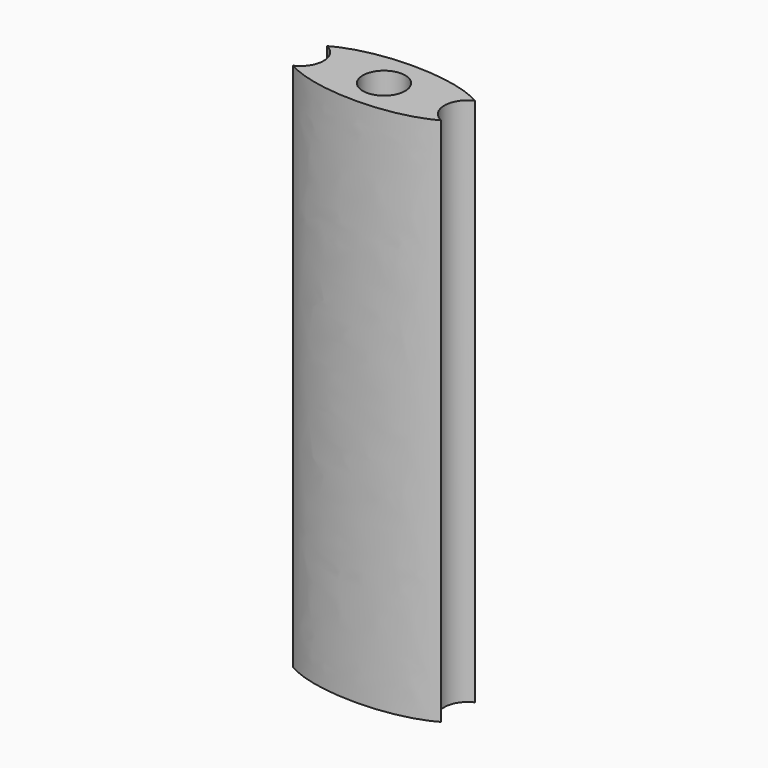
from build123d import *

# Parameters (mm, degrees)
F0_R     = 2
F1_DEPTH = 50


with BuildPart() as f1:
    # F0 (on Top) → F1 (new body)
    with BuildSketch(Plane.XY):
        with BuildLine():
            ThreePointArc((-6.9790131878, 1.9979447669), (-5.7, 0), (-6.9790131878, -1.9979447669))
            add(Edge.make_bspline(
                [(-6.9790131878, -1.9979447669), (0, -6.1313006259), (6.9790131878, -1.9979447669)],
                knots=[0.6075302167, 0.6075302167, 0.6075302167, 2.5340624369, 2.5340624369, 2.5340624369], degree=2, weights=[1, 0.570841362, 1]))
            ThreePointArc((6.9790131878, -1.9979447669), (5.7, 0), (6.9790131878, 1.9979447669))
            add(Edge.make_bspline(
                [(6.9790131878, 1.9979447669), (0, 6.1313006259), (-6.9790131878, 1.9979447669)],
                knots=[3.7491228703, 3.7491228703, 3.7491228703, 5.6756550905, 5.6756550905, 5.6756550905], degree=2, weights=[1, 0.570841362, 1]))
        make_face()
        Circle(F0_R, mode=Mode.SUBTRACT)
    extrude(amount=F1_DEPTH)


solid = f1.part
